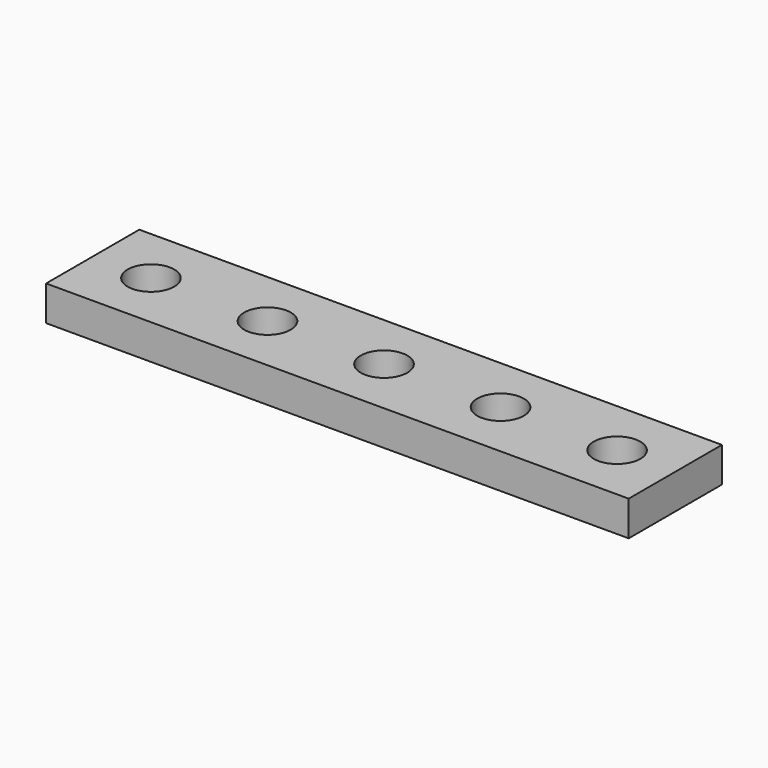
from build123d import *

# Parameters (mm, degrees)
CYLINDER001_R     = 2
CYLINDER001_DEPTH = 10
CYLINDER002_R     = 2
CYLINDER002_DEPTH = 10
CYLINDER003_R     = 2
CYLINDER003_DEPTH = 10
CYLINDER004_R     = 2
CYLINDER004_DEPTH = 10
CYLINDER_R        = 2
CYLINDER_DEPTH    = 10
BOX_W             = 50
BOX_H             = 10
BOX_DEPTH         = 3


with BuildPart() as cylinder001:
    # Cylinder001 → Cylinder001 (new body)
    with BuildSketch(Plane(origin=(15, 5, -3), x_dir=(1, 0, 0), z_dir=(0, 0, 1))):
        Circle(CYLINDER001_R)
    extrude(amount=CYLINDER001_DEPTH)


with BuildPart() as cylinder002:
    # Cylinder002 → Cylinder002 (new body)
    with BuildSketch(Plane(origin=(25, 5, -3), x_dir=(1, 0, 0), z_dir=(0, 0, 1))):
        Circle(CYLINDER002_R)
    extrude(amount=CYLINDER002_DEPTH)


with BuildPart() as cylinder003:
    # Cylinder003 → Cylinder003 (new body)
    with BuildSketch(Plane(origin=(35, 5, -3), x_dir=(1, 0, 0), z_dir=(0, 0, 1))):
        Circle(CYLINDER003_R)
    extrude(amount=CYLINDER003_DEPTH)


with BuildPart() as cylinder004:
    # Cylinder004 → Cylinder004 (new body)
    with BuildSketch(Plane(origin=(45, 5, -3), x_dir=(1, 0, 0), z_dir=(0, 0, 1))):
        Circle(CYLINDER004_R)
    extrude(amount=CYLINDER004_DEPTH)


with BuildPart() as fusion:
    # Cylinder → Cylinder (new body)
    with BuildSketch(Plane(origin=(5, 5, -3), x_dir=(1, 0, 0), z_dir=(0, 0, 1))):
        Circle(CYLINDER_R)
    extrude(amount=CYLINDER_DEPTH)

    # Fusion: union Cylinder001, Cylinder002, Cylinder003, Cylinder004
    add(cylinder001.part)
    add(cylinder002.part)
    add(cylinder003.part)
    add(cylinder004.part)


with BuildPart() as cut:
    # Box → Box (new body)
    with BuildSketch(Plane.XY):
        with Locations((25, 5)):
            Rectangle(BOX_W, BOX_H)
    extrude(amount=BOX_DEPTH)

    # Cut: cut Fusion
    add(fusion.part, mode=Mode.SUBTRACT)


solid = cut.part
